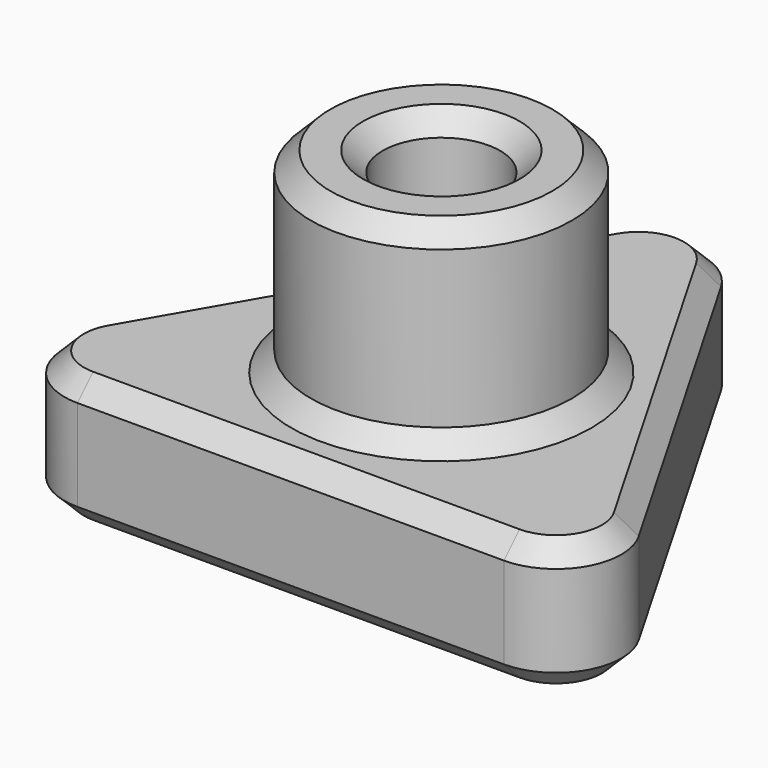
from build123d import *

# Parameters (mm, degrees)
F1_DEPTH = 5.08
F2_R     = 5.08
F3_DEPTH = 12.7
F4_D     = 4.572
F5_R     = 2.54
F6_SIZE  = 0.762


with BuildPart() as f1:
    # F0 (on Top) → F1 (new body)
    with BuildSketch(Plane.XY):
        Polygon((12.7, -7.3323484187), (0, 14.6646968374), (-12.7, -7.3323484187), align=None)
    extrude(amount=F1_DEPTH)

    # F2 (on Top) → F3 (join)
    with BuildSketch(Plane.XY):
        Circle(F2_R)
    extrude(amount=F3_DEPTH)

    # F4 (through all)
    with Locations(Plane(origin=(0, 0, 0), x_dir=(1, 0, 0), z_dir=(0, 0, -1))):
        with Locations((0, 0)):
            Hole(F4_D / 2)

    # F5
    f5_edges = [f1.edges().sort_by_distance(p)[0] for p in [
        (-12.7, -7.332348, 2.54),
        (12.7, -7.332348, 2.54),
        (0, 14.664697, 2.54),
    ]]
    fillet(f5_edges, radius=F5_R)

    # F6
    f6_edges = [f1.edges().sort_by_distance(p)[0] for p in [
        (6.35, 3.666174, 0),
        (10.500295, -6.062348, 0),
        (0, 12.124697, 0),
        (0, -7.332348, 0),
        (-6.35, 3.666174, 0),
        (-10.500295, -6.062348, 0),
        (-2.286, 0, 0),
        (-5.08, 0, 12.7),
        (-2.286, 0, 12.7),
        (6.35, 3.666174, 5.08),
        (10.500295, -6.062348, 5.08),
        (0, 12.124697, 5.08),
        (0, -7.332348, 5.08),
        (-6.35, 3.666174, 5.08),
        (-10.500295, -6.062348, 5.08),
        (-5.08, 0, 5.08),
    ]]
    chamfer(f6_edges, length=F6_SIZE)


solid = f1.part
